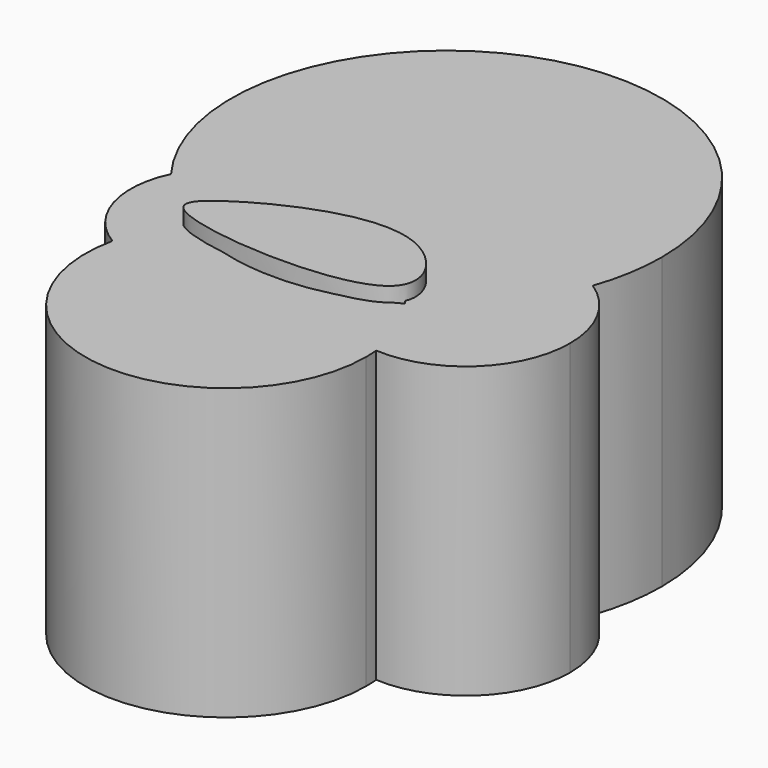
from build123d import *

# Parameters (mm, degrees)
F2_DEPTH = 92.5154741853
F0_DEPTH = 97.1629172564


with BuildPart() as f2:
    # F1 (on Top) → F2 (new body)
    with BuildSketch(Plane.XY):
        with BuildLine():
            ThreePointArc((44.535878433, -33.2482290868), (69.3702098075, -24.249252625), (79.8439550455, 0))
            ThreePointArc((79.8439550455, 0), (75.8514189323, 15.8123037264), (64.8309496766, 27.8338906072))
            ThreePointArc((64.8309496766, 27.8338906072), (52.8981608399, 6.706864812), (34.3638503598, -8.9527010632))
            ThreePointArc((34.3638503598, -8.9527010632), (41.2778387441, -20.3351305507), (44.535878433, -33.2482290868))
        make_face()
        with BuildLine():
            ThreePointArc((34.3638503598, -8.9527010632), (52.8981608399, 6.706864812), (64.8309496766, 27.8338906072))
            ThreePointArc((64.8309496766, 27.8338906072), (32.9810423523, 30.4255919297), (13.6068053003, 5.0135386682))
            ThreePointArc((13.6068053003, 5.0135386682), (24.9811912081, -0.4894991276), (34.3638503598, -8.9527010632))
        make_face()
        with BuildLine():
            ThreePointArc((13.6068053003, 5.0135386682), (32.9810423523, 30.4255919297), (64.8309496766, 27.8338906072))
            ThreePointArc((64.8309496766, 27.8338906072), (67.7145282445, 39.013298427), (68.6848598779, 50.5177602172))
            ThreePointArc((68.6848598779, 50.5177602172), (-21.7831497836, 115.6568756699), (-54.8679687803, 9.2005001631))
            ThreePointArc((-54.8679687803, 9.2005001631), (-27.6196679815, 25.597862276), (-1.7527016438, 7.0980397588))
            ThreePointArc((-1.7527016438, 7.0980397588), (6.0179921547, 6.7258769298), (13.6068053003, 5.0135386682))
        make_face()
        with BuildLine():
            ThreePointArc((44.7496727734, -37.6172959805), (44.6961922309, -35.4301486637), (44.535878433, -33.2482290868))
            ThreePointArc((44.535878433, -33.2482290868), (28.6822600259, -28.119398588), (17.2965115244, -15.9535919997))
            ThreePointArc((17.2965115244, -15.9535919997), (6.8156269651, -17.8281043653), (-3.8290350442, -18.0602863216))
            ThreePointArc((-3.8290350442, -18.0602863216), (-21.6809587163, -31.4155799712), (-43.73192107, -28.1277073248))
            ThreePointArc((-43.73192107, -28.1277073248), (-4.7720045941, -82.1118033435), (44.7496727734, -37.6172959805))
        make_face()
        with BuildLine():
            ThreePointArc((17.2965115244, -15.9535919997), (28.6822600259, -28.119398588), (44.535878433, -33.2482290868))
            ThreePointArc((44.535878433, -33.2482290868), (41.2778387441, -20.3351305507), (34.3638503598, -8.9527010632))
            ThreePointArc((34.3638503598, -8.9527010632), (26.0662879209, -13.0287472437), (17.2965115244, -15.9535919997))
        make_face()
        with BuildLine():
            ThreePointArc((-34.3638503598, -8.9527010632), (-19.7612727928, 2.5327390249), (-1.7527016438, 7.0980397588))
            ThreePointArc((-1.7527016438, 7.0980397588), (-27.6196679815, 25.597862276), (-54.8679687803, 9.2005001631))
            ThreePointArc((-54.8679687803, 9.2005001631), (-45.5298151265, -0.9083606845), (-34.3638503598, -8.9527010632))
        make_face()
        with BuildLine():
            ThreePointArc((-34.3638503598, -8.9527010632), (-45.5298151265, -0.9083606845), (-54.8679687803, 9.2005001631))
            ThreePointArc((-54.8679687803, 9.2005001631), (-56.5144673123, -11.6158972728), (-43.73192107, -28.1277073248))
            ThreePointArc((-43.73192107, -28.1277073248), (-40.2076807972, -17.9735789636), (-34.3638503598, -8.9527010632))
        make_face()
        with BuildLine():
            ThreePointArc((-43.73192107, -28.1277073248), (-21.6809587163, -31.4155799712), (-3.8290350442, -18.0602863216))
            ThreePointArc((-3.8290350442, -18.0602863216), (-19.6318911769, -15.3016808718), (-34.3638503598, -8.9527010632))
            ThreePointArc((-34.3638503598, -8.9527010632), (-40.2076807972, -17.9735789636), (-43.73192107, -28.1277073248))
        make_face()
    extrude(amount=F2_DEPTH)

    # F3 (on Top) → F0 (join)
    with BuildSketch(Plane.XY):
        with BuildLine():
            add(Edge.make_bspline(
                [(-34.9871255457, -10.5970427394), (-38.5202182083, -7.629362708), (-26.9744975771, 3.3374806038), (20.1910972985, 24.1151109584), (50.3086010226, -22.7421521605), (-26.7868217781, -17.4850244785), (-34.9871255457, -10.5970427394)],
                knots=[0, 0, 0, 0, 0.1481479543, 0.4463197978, 0.6561487784, 1, 1, 1, 1], degree=3))
        make_face()
    extrude(amount=F0_DEPTH)


solid = f2.part
